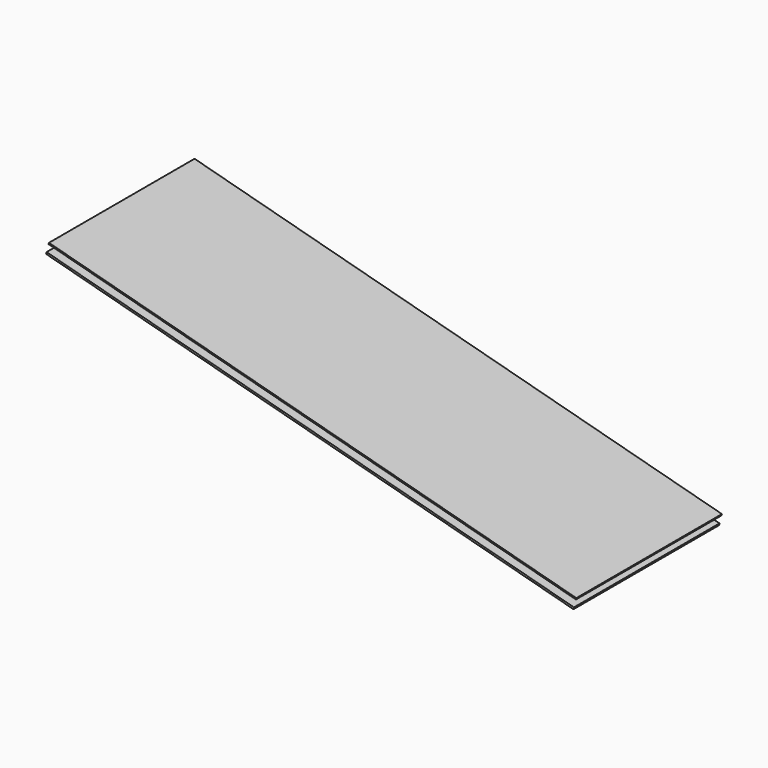
from build123d import *

# Parameters (mm, degrees)
F1_DEPTH = 152.4
F3_DEPTH = 152.4


with BuildPart() as f1:
    # F0 (on Front) → F1 (new body, symmetric)
    with BuildSketch(Plane.XZ):
        Polygon((-441.004975, 120.632178), (-441.621288, 118.332067), (441.621288, -118.332067), (442.237601, -116.031957), align=None)
    extrude(amount=F1_DEPTH, both=True)


with BuildPart() as f3:
    # F2 (on Front) → F3 (new body, symmetric)
    with BuildSketch(Plane.XZ):
        Polygon((-445.024243, 105.632067), (-445.845993, 102.565253), (437.396583, -134.098882), (438.218333, -131.032067), align=None)
    extrude(amount=F3_DEPTH, both=True)


solid = Compound([f1.part, f3.part])
